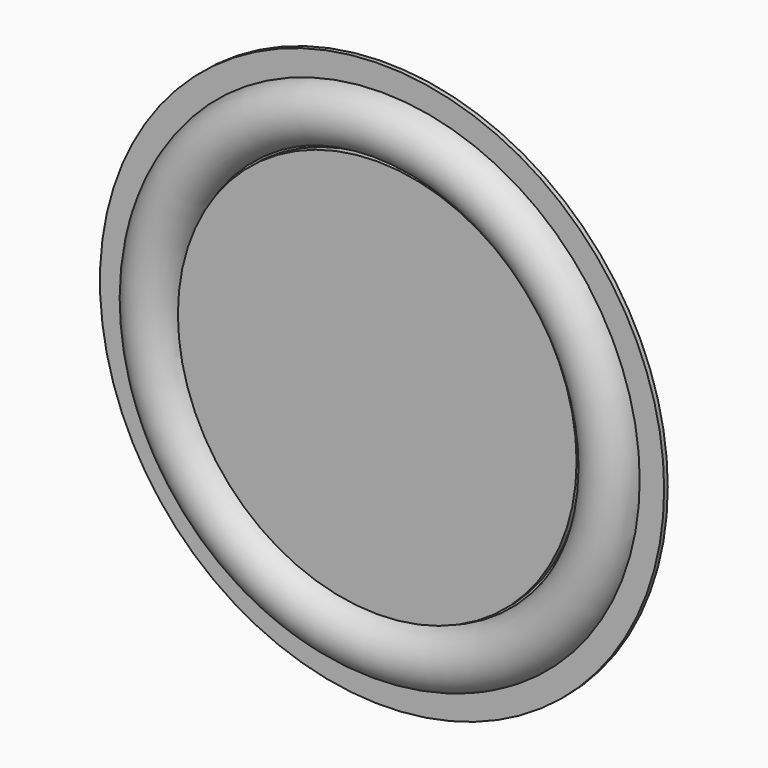
from build123d import *

# Parameters (mm, degrees)
F0_R     = 26.5
F1_DEPTH = 0.8


with BuildPart() as f1:
    # F0 (on Front) → F1 (new body)
    with BuildSketch(Plane.XZ):
        Circle(F0_R)
    extrude(amount=F1_DEPTH)


with BuildPart() as f3:
    # F2 (on Top) → F3 (revolve)
    with BuildSketch(Plane.XY):
        with BuildLine():
            Line((23.5, 0.6), (23.5, 0))
            Line((23.5, 0), (26.747667, 0))
            ThreePointArc((26.747667, 0), (30.5, -3.2), (34.252333, 0))
            Line((34.252333, 0), (37.5, 0))
            Line((37.5, 0), (37.5, 0.6))
            Line((37.5, 0.6), (33.7, 0.6))
            ThreePointArc((33.7, 0.6), (30.5, -2.6), (27.3, 0.6))
            Line((27.3, 0.6), (23.5, 0.6))
        make_face()
    revolve(axis=Axis((0, -0.8, 0), (0, -1, 0)))


solid = Compound([f1.part, f3.part])
